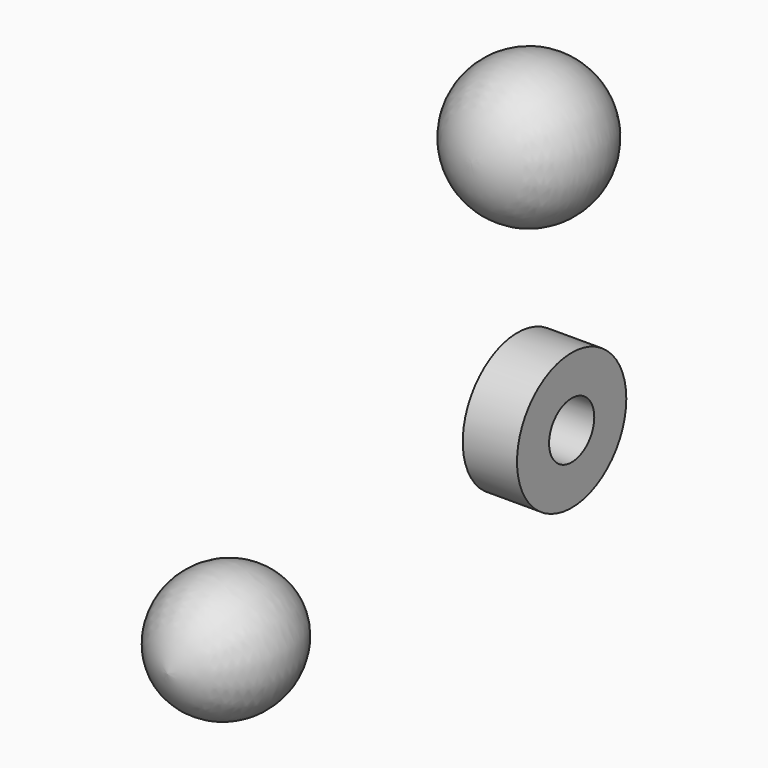
from build123d import *

# Parameters (mm, degrees)
F2_R     = 31.4558574664
F2_R_2   = 13.0082664749
F3_DEPTH = 25


with BuildPart() as f1:
    # F0 (on Top) → F1 (revolve)
    with BuildSketch(Plane.XY):
        with BuildLine():
            ThreePointArc((-32.6818525791, -29.4257290661), (-3.4474405813, 4.34149988), (-32.6818525791, 38.108728826))
            Line((-32.6818525791, 38.108728826), (-32.6818525791, -29.4257290661))
        make_face()
    revolve(axis=Axis((-32.6818525791, 4.34149988, 0), (0, -1, 0)))


with BuildPart() as f3:
    # F2 (on Right) → F3 (new body)
    with BuildSketch(Plane.YZ):
        with Locations((131.2791705132, 52.1424598992)):
            Circle(F2_R)
        with Locations((131.2791705132, 52.1424598992)):
            Circle(F2_R_2, mode=Mode.SUBTRACT)
    extrude(amount=F3_DEPTH)


with BuildPart() as f5:
    # F4 (on face) → F5 (revolve)
    with BuildSketch(Plane.YZ.offset(25)):
        with BuildLine():
            ThreePointArc((73.6840218306, 183.6805790663), (103.8896455722, 148.1592839887), (139.5830214024, 178.161367774))
            Line((139.5830214024, 178.161367774), (73.6840218306, 183.6805790663))
        make_face()
    revolve(axis=Axis((25, 106.6335216165, 180.9209734201), (0, -0.9965110966, 0.0834603762)))


solid = Compound([f1.part, f3.part, f5.part])
